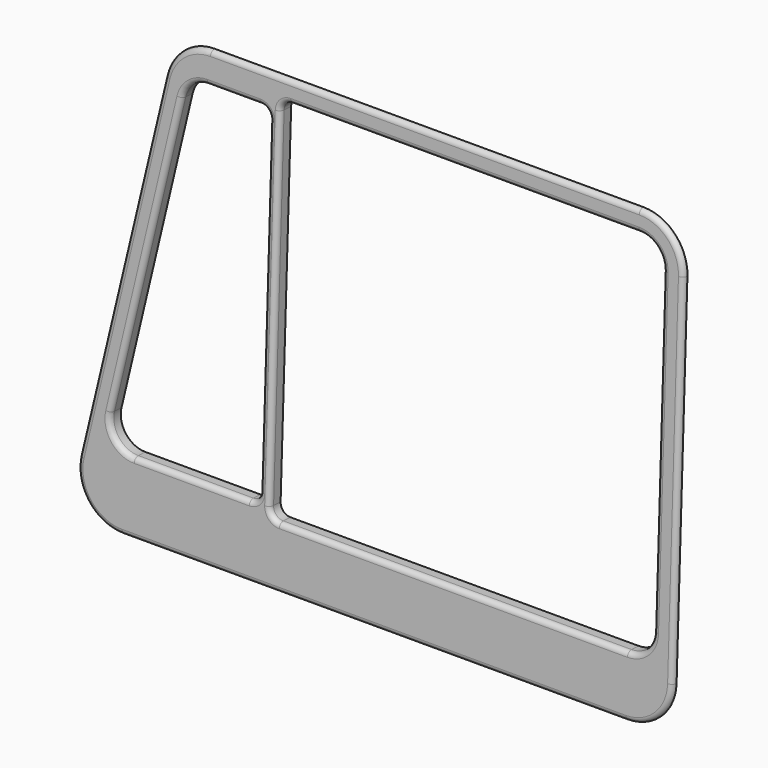
from build123d import *

# Parameters (mm, degrees)
BOX024_W               = 11
BOX024_H               = 7
BOX024_DEPTH           = 48
BOX024_ROLL_ANGLE      = -2.200006
BOX024_PITCH_ANGLE     = 12.000025
BOX024_PLACEMENT_ANGLE = -1e-06
BOX023_W               = 17
BOX023_H               = 5
BOX023_DEPTH           = 34
BOX023_ROLL_ANGLE      = -2.2
FILLET024_R            = 2.5
FILLET025_R            = 1
BOX025_W               = 38
BOX025_H               = 5
BOX025_DEPTH           = 36
BOX025_ROLL_ANGLE      = -2.2
FILLET022_R            = 2.5
FILLET023_R            = 1
BOX003_W               = 11
BOX003_H               = 7
BOX003_DEPTH           = 48
BOX003_ROLL_ANGLE      = -2.200006
BOX003_PITCH_ANGLE     = 12.000025
BOX003_PLACEMENT_ANGLE = -1e-06
BOX002_W               = 58
BOX002_H               = 1
BOX002_DEPTH           = 42
BOX002_ROLL_ANGLE      = -2.2
FILLET021_R            = 3.5
BOX022_W               = 11
BOX022_H               = 7
BOX022_DEPTH           = 48
BOX022_ROLL_ANGLE      = -2.200006
BOX022_PITCH_ANGLE     = 12.000025
BOX022_PLACEMENT_ANGLE = -1e-06
BOX021_W               = 60
BOX021_H               = 0.5
BOX021_DEPTH           = 44
BOX021_ROLL_ANGLE      = -2.2
FILLET020_R            = 4.5
FILLET026_R            = 0.49
FILLET027_R            = 0.49


with BuildPart() as cube450:
    # Box024 → Box024 (new body)
    with BuildSketch(Plane.XY):
        with Locations((5.5, 3.5)):
            Rectangle(BOX024_W, BOX024_H)
    extrude(amount=BOX024_DEPTH)


with BuildPart() as cube450_1:
    # Box024 roll: moved
    add(cube450.part.rotate(Axis((0, 0, 0), (1, 0, 0)), BOX024_ROLL_ANGLE))


with BuildPart() as cube450_2:
    # Box024 pitch: moved
    add(cube450_1.part.rotate(Axis((0, 0, 0), (0, 1, 0)), BOX024_PITCH_ANGLE))


with BuildPart() as cube450_3:
    # Box024 placement: moved
    add(cube450_2.part.moved(Location((9.5, 1, 70))).rotate(Axis((9.5, 1, 70), (0, 0, 1)), BOX024_PLACEMENT_ANGLE))


with BuildPart() as fillet025:
    # Box023 → Box023 (new body)
    with BuildSketch(Plane.XY):
        with Locations((8.5, 2.5)):
            Rectangle(BOX023_W, BOX023_H)
    extrude(amount=BOX023_DEPTH)


with BuildPart() as fillet025_1:
    # Box023 roll: moved
    add(fillet025.part.rotate(Axis((0, 0, 0), (1, 0, 0)), BOX023_ROLL_ANGLE))


with BuildPart() as fillet025_2:
    # Box023 placement: moved
    add(fillet025_1.part.moved(Location((20.5, 2, 76))))

    # Cut016: cut Cube450
    add(cube450_3.part, mode=Mode.SUBTRACT)

    # Fillet024
    fillet024_edges = [fillet025_2.edges().sort_by_distance(p)[0] for p in [
        (22.000691, 4.498157, 75.90403),
        (29.222302, 5.803343, 109.87897),
    ]]
    fillet(fillet024_edges, radius=FILLET024_R)

    # Fillet025
    fillet025_edges = [fillet025_2.edges().sort_by_distance(p)[0] for p in [
        (37.5, 4.498157, 75.90403),
        (37.5, 5.803343, 109.87897),
    ]]
    fillet(fillet025_edges, radius=FILLET025_R)


with BuildPart() as fusion002:
    # Box025 → Box025 (new body)
    with BuildSketch(Plane.XY):
        with Locations((19, 2.5)):
            Rectangle(BOX025_W, BOX025_H)
    extrude(amount=BOX025_DEPTH)


with BuildPart() as fusion002_1:
    # Box025 roll: moved
    add(fusion002.part.rotate(Axis((0, 0, 0), (1, 0, 0)), BOX025_ROLL_ANGLE))


with BuildPart() as fusion002_2:
    # Box025 placement: moved
    add(fusion002_1.part.moved(Location((38.5, 2, 75))))

    # Fillet022
    fillet022_edges = [fusion002_2.edges().sort_by_distance(p)[0] for p in [
        (76.5, 5.880118, 110.877495),
        (76.5, 4.498157, 74.90403),
    ]]
    fillet(fillet022_edges, radius=FILLET022_R)

    # Fillet023
    fillet023_edges = [fusion002_2.edges().sort_by_distance(p)[0] for p in [
        (38.5, 4.498157, 74.90403),
        (38.5, 5.880118, 110.877495),
    ]]
    fillet(fillet023_edges, radius=FILLET023_R)

    # Fusion002: union Fillet025
    add(fillet025_2.part)


with BuildPart() as cube049:
    # Box003 → Box003 (new body)
    with BuildSketch(Plane.XY):
        with Locations((5.5, 3.5)):
            Rectangle(BOX003_W, BOX003_H)
    extrude(amount=BOX003_DEPTH)


with BuildPart() as cube049_1:
    # Box003 roll: moved
    add(cube049.part.rotate(Axis((0, 0, 0), (1, 0, 0)), BOX003_ROLL_ANGLE))


with BuildPart() as cube049_2:
    # Box003 pitch: moved
    add(cube049_1.part.rotate(Axis((0, 0, 0), (0, 1, 0)), BOX003_PITCH_ANGLE))


with BuildPart() as cube049_3:
    # Box003 placement: moved
    add(cube049_2.part.moved(Location((8.5, 1, 70))).rotate(Axis((8.5, 1, 70), (0, 0, 1)), BOX003_PLACEMENT_ANGLE))


with BuildPart() as fillet021:
    # Box002 → Box002 (new body)
    with BuildSketch(Plane.XY):
        with Locations((29, 0.5)):
            Rectangle(BOX002_W, BOX002_H)
    extrude(amount=BOX002_DEPTH)


with BuildPart() as fillet021_1:
    # Box002 roll: moved
    add(fillet021.part.rotate(Axis((0, 0, 0), (1, 0, 0)), BOX002_ROLL_ANGLE))


with BuildPart() as fillet021_2:
    # Box002 placement: moved
    add(fillet021_1.part.moved(Location((19.5, 3, 70))))

    # Cut001: cut Cube049
    add(cube049_3.part, mode=Mode.SUBTRACT)

    # Fillet021
    fillet021_edges = [fillet021_2.edges().sort_by_distance(p)[0] for p in [
        (77.5, 3.499631, 69.980806),
        (19.741668, 3.499631, 69.980806),
        (77.5, 5.111919, 111.949849),
        (28.662482, 5.111919, 111.949849),
    ]]
    fillet(fillet021_edges, radius=FILLET021_R)


with BuildPart() as cube448:
    # Box022 → Box022 (new body)
    with BuildSketch(Plane.XY):
        with Locations((5.5, 3.5)):
            Rectangle(BOX022_W, BOX022_H)
    extrude(amount=BOX022_DEPTH)


with BuildPart() as cube448_1:
    # Box022 roll: moved
    add(cube448.part.rotate(Axis((0, 0, 0), (1, 0, 0)), BOX022_ROLL_ANGLE))


with BuildPart() as cube448_2:
    # Box022 pitch: moved
    add(cube448_1.part.rotate(Axis((0, 0, 0), (0, 1, 0)), BOX022_PITCH_ANGLE))


with BuildPart() as cube448_3:
    # Box022 placement: moved
    add(cube448_2.part.moved(Location((7.5, 1, 70))).rotate(Axis((7.5, 1, 70), (0, 0, 1)), BOX022_PLACEMENT_ANGLE))


with BuildPart() as left_front_window_border:
    # Box021 → Box021 (new body)
    with BuildSketch(Plane.XY):
        with Locations((30, 0.25)):
            Rectangle(BOX021_W, BOX021_H)
    extrude(amount=BOX021_DEPTH)


with BuildPart() as left_front_window_border_1:
    # Box021 roll: moved
    add(left_front_window_border.part.rotate(Axis((0, 0, 0), (1, 0, 0)), BOX021_ROLL_ANGLE))


with BuildPart() as left_front_window_border_2:
    # Box021 placement: moved
    add(left_front_window_border_1.part.moved(Location((18.5, 2.6, 69))))

    # Cut015: cut Cube448
    add(cube448_3.part, mode=Mode.SUBTRACT)

    # Fillet020
    fillet020_edges = [left_front_window_border_2.edges().sort_by_distance(p)[0] for p in [
        (78.5, 2.849816, 68.990403),
        (18.531151, 2.849816, 68.990403),
        (78.5, 4.538879, 112.957971),
        (27.876766, 4.538879, 112.957971),
    ]]
    fillet(fillet020_edges, radius=FILLET020_R)

    # Fusion: union Fillet021
    add(fillet021_2.part)

    # Cut017: cut Fusion002
    add(fusion002_2.part, mode=Mode.SUBTRACT)

    # Fillet026
    fillet026_edges = [left_front_window_border_2.edges().sort_by_distance(p)[0] for p in [
        (33.880234, 4.172818, 109.941608),
        (56.75, 4.211234, 110.941608),
    ]]
    fillet(fillet026_edges, radius=FILLET026_R)

    # Fillet027
    fillet027_edges = [left_front_window_border_2.edges().sort_by_distance(p)[0] for p in [
        (49.044763, 2.6, 69),
    ]]
    fillet(fillet027_edges, radius=FILLET027_R)


solid = left_front_window_border_2.part
